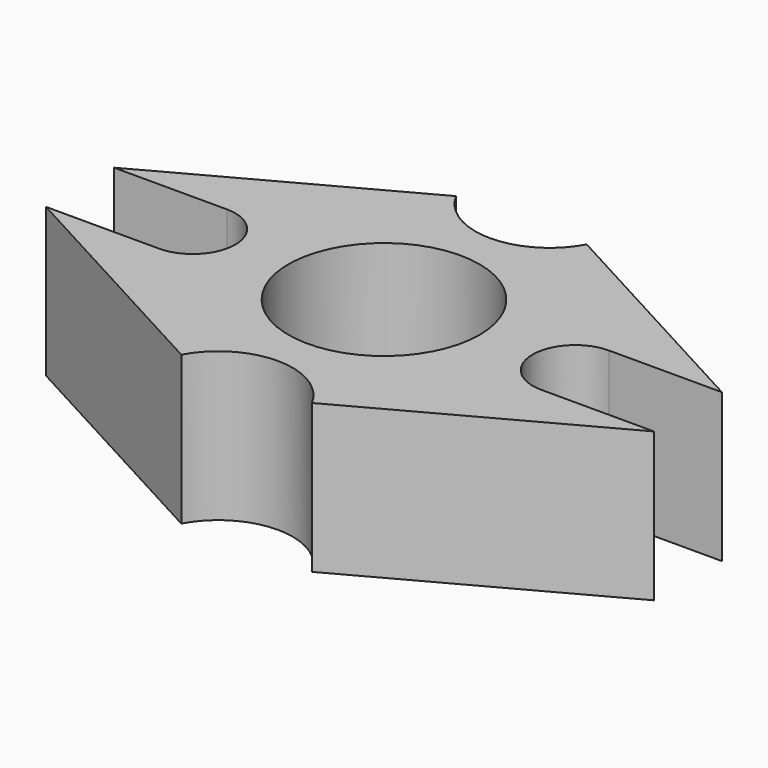
from build123d import *

# Parameters (mm, degrees)
F0_R      = 9
F1_DEPTH  = 12
F1_FACE_R = 9
F0_R_2    = 7.5
F2_DEPTH  = 2


with BuildPart() as f1:
    # F0 (on Top) → F1 (new body)
    with BuildSketch(Plane.XY):
        with BuildLine():
            ThreePointArc((6.155044, 16.166018), (0, 12.5), (-6.155044, 16.166018))
            Line((-6.155044, 16.166018), (-28.615385, 4))
            Line((-28.615385, 4), (-18, 4))
            ThreePointArc((-18, 4), (-14, 0), (-18, -4))
            Line((-18, -4), (-28.615385, -4))
            Line((-28.615385, -4), (-6.155044, -16.166018))
            ThreePointArc((-6.155044, -16.166018), (0, -12.5), (6.155044, -16.166018))
            Line((6.155044, -16.166018), (28.615385, -4))
            Line((28.615385, -4), (18, -4))
            ThreePointArc((18, -4), (14, 0), (18, 4))
            Line((18, 4), (28.615385, 4))
            Line((28.615385, 4), (6.155044, 16.166018))
        make_face()
        Circle(F0_R, mode=Mode.SUBTRACT)
    extrude(amount=F1_DEPTH)

    # F1_face (on face) + F0 (on Top) → F2 (join)
    with BuildSketch(Plane.XY.offset(12)):
        with BuildLine():
            ThreePointArc((-6.155044, -16.166018), (0, -12.5), (6.155044, -16.166018))
            Line((6.155044, -16.166018), (28.615385, -4))
            Line((28.615385, -4), (18, -4))
            ThreePointArc((18, -4), (14, 0), (18, 4))
            Line((18, 4), (28.615385, 4))
            Line((28.615385, 4), (6.155044, 16.166018))
            ThreePointArc((6.155044, 16.166018), (0, 12.5), (-6.155044, 16.166018))
            Line((-6.155044, 16.166018), (-28.615385, 4))
            Line((-28.615385, 4), (-18, 4))
            ThreePointArc((-18, 4), (-14, 0), (-18, -4))
            Line((-18, -4), (-28.615385, -4))
            Line((-28.615385, -4), (-6.155044, -16.166018))
        make_face()
        Circle(F1_FACE_R, mode=Mode.SUBTRACT)
    with BuildSketch(Plane.XY):
        Circle(F0_R)
        Circle(F0_R_2, mode=Mode.SUBTRACT)
    extrude(amount=F2_DEPTH)


solid = f1.part
